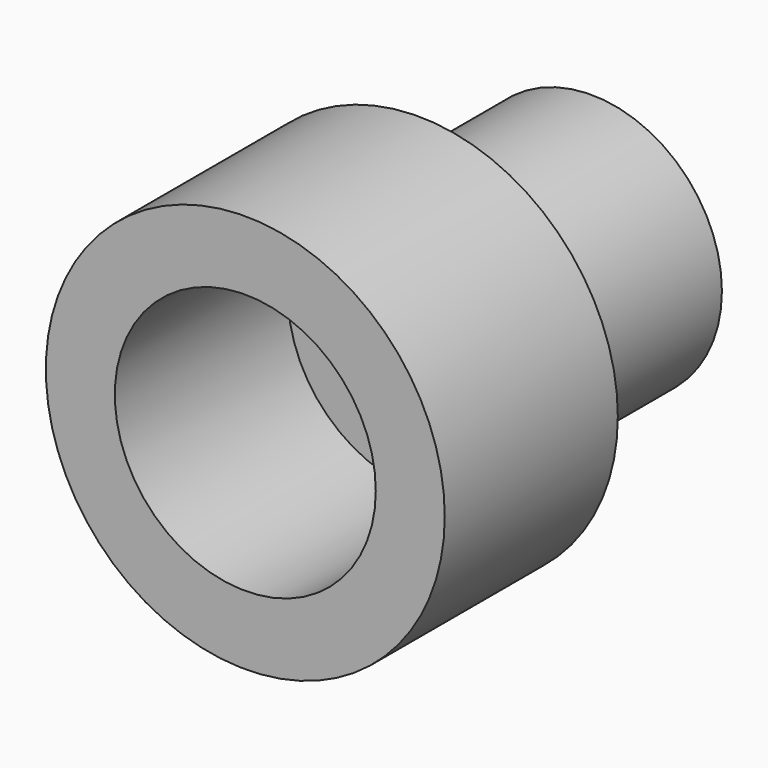
from build123d import *

# Parameters (mm, degrees)
F0_R     = 23.419168
F0_R_2   = 15.320285
F1_DEPTH = 25.4
F0_R_3   = 9.367665
F2_DEPTH = 25.4
F3_DEPTH = 25.4


with BuildPart() as f1:
    # F0 (on Front) → F1 (new body)
    with BuildSketch(Plane.XZ):
        with Locations((21.047119, 43.487061)):
            Circle(F0_R)
        with Locations((21.047119, 43.487061)):
            Circle(F0_R_2, mode=Mode.SUBTRACT)
    extrude(amount=F1_DEPTH)

    # F0 (on Front) → F2 (join)
    with BuildSketch(Plane.XZ):
        with Locations((21.047119, 43.487061)):
            Circle(F0_R_2)
        with Locations((21.047119, 43.487061)):
            Circle(F0_R_3, mode=Mode.SUBTRACT)
    extrude(amount=-F2_DEPTH)

    # F0 (on Front) → F3 (join)
    with BuildSketch(Plane.XZ):
        with Locations((21.047119, 43.487061)):
            Circle(F0_R_3)
    extrude(amount=-F3_DEPTH)


solid = f1.part
